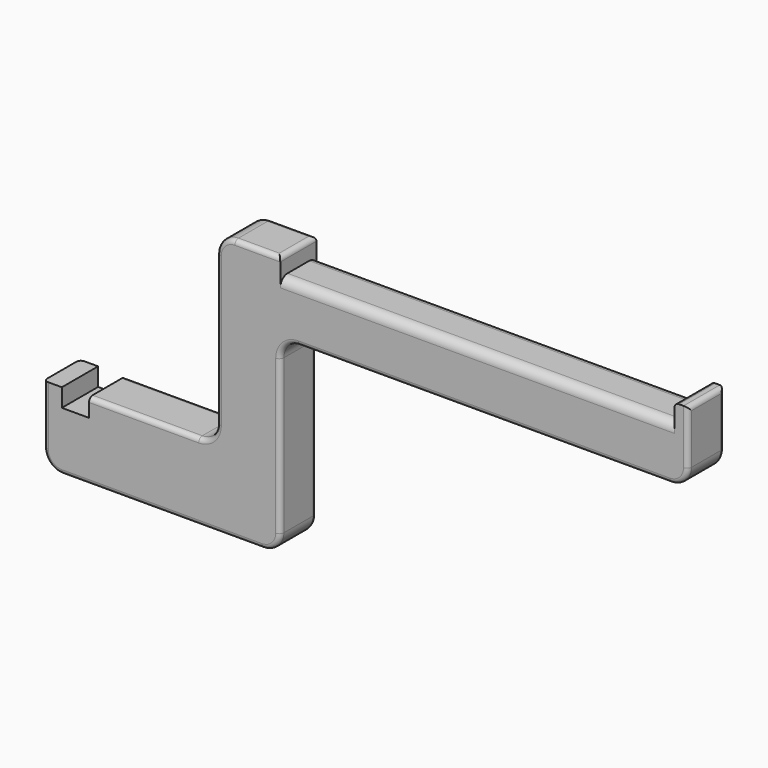
from build123d import *

# Parameters (mm, degrees)
F1_DEPTH = 12.7
F2_R     = 5.08
F3_R     = 2.54
F4_R     = 1.27


with BuildPart() as f1:
    # F0 (on Front) → F1 (new body)
    with BuildSketch(Plane.XZ):
        Polygon((7.609934, 0), (0, 0), (0, 5.08), (-5.08, 5.08), (-5.08, -16.51), (61.221046, -16.51), (61.221046, 5.08), (61.221046, 36.83), (175.521046, 36.83), (175.521046, 57.15), (171.711046, 57.15), (171.711046, 52.07), (61.221046, 52.07), (61.221046, 57.15), (43.441046, 57.15), (43.441046, 5.08), (7.609934, 5.08), align=None)
    extrude(amount=F1_DEPTH)

    # F2
    f2_edges = [f1.edges().sort_by_distance(p)[0] for p in [
        (61.221046, -6.35, -16.51),
        (43.441046, -6.35, 57.15),
        (43.441046, -6.35, 5.08),
        (61.221046, -6.35, 36.83),
        (175.521046, -6.35, 36.83),
        (-5.08, -6.35, -16.51),
    ]]
    fillet(f2_edges, radius=F2_R)

    # F3
    f3_edges = [f1.edges().sort_by_distance(p)[0] for p in [
        (116.466046, -12.7, 52.07),
        (116.466046, 0, 52.07),
    ]]
    fillet(f3_edges, radius=F3_R)

    # F4
    f4_edges = [f1.edges().sort_by_distance(p)[0] for p in [
        (43.441046, -12.7, 31.115),
        (22.98549, 0, 5.08),
        (-5.08, -12.7, -3.175),
        (-5.08, 0, -3.175),
        (61.221046, -6.35, 57.15),
        (171.711046, -6.35, 57.15),
        (175.521046, -6.35, 57.15),
    ]]
    fillet(f4_edges, radius=F4_R)


solid = f1.part
